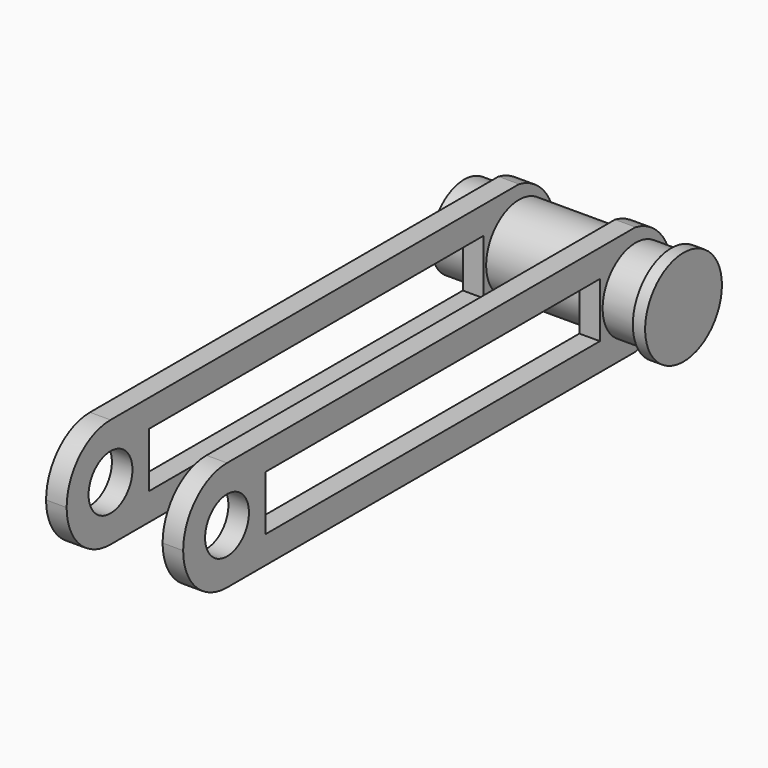
from build123d import *

# Parameters (mm, degrees)
F0_R          = 30
F1_DEPTH      = 160
F2_W          = 100
F2_H          = 80
F3_DEPTH      = 32.5
F3_DEPTH_BACK = 32.5
F4_W          = 15
F4_H          = 20
F5_DEPTH      = 380
F6_W          = 75
F6_H          = 80
F7_DEPTH      = 15
F8_W          = 75
F8_H          = 80
F9_DEPTH      = 15
F10_R         = 20
F11_DEPTH     = 135.001
F13_DEPTH     = 125.001
F14_W         = 70
F14_H         = 80
F15_DEPTH     = 65.001
F17_DEPTH     = 125.001
F18_R         = 30
F19_DEPTH     = 70
F20_R         = 35
F21_DEPTH     = 9


with BuildPart() as f1:
    # F0 (on Right) → F1 (new body)
    with BuildSketch(Plane.YZ):
        Circle(F0_R)
    extrude(amount=F1_DEPTH)

    # F2 (on Front) → F3 (join, two sides)
    with BuildSketch(Plane.XZ) as f3_sk:
        with Locations((75, 0)):
            Rectangle(F2_W, F2_H)
    extrude(amount=F3_DEPTH)
    extrude(f3_sk.sketch, amount=-F3_DEPTH_BACK)

    # F4 (on face) → F5 (join)
    with BuildSketch(Plane.XZ.offset(32.5)):
        with Locations((117.5, 30)):
            Rectangle(F4_W, F4_H)
        with Locations((117.5, -30)):
            Rectangle(F4_W, F4_H)
        with Locations((32.5, 30)):
            Rectangle(F4_W, F4_H)
        with Locations((32.5, -30)):
            Rectangle(F4_W, F4_H)
    extrude(amount=F5_DEPTH)

    # F6 (on face) → F7 (join)
    with BuildSketch(Plane.YZ.offset(125)):
        with Locations((-375, 0)):
            Rectangle(F6_W, F6_H)
    extrude(amount=-F7_DEPTH)

    # F8 (on face) → F9 (join)
    with BuildSketch(Plane(origin=(25, 0, 0), x_dir=(0, -1, 0), z_dir=(-1, 0, 0))):
        with Locations((375, 0)):
            Rectangle(F8_W, F8_H)
    extrude(amount=-F9_DEPTH)

    # F10 (on face) → F11 (cut, through all)
    with BuildSketch(Plane(origin=(25, 0, 0), x_dir=(0, -1, 0), z_dir=(-1, 0, 0))):
        with Locations((372.5, 0)):
            Circle(F10_R)
    extrude(amount=-F11_DEPTH, mode=Mode.SUBTRACT)

    # F12 (on face) → F13 (cut, through all)
    with BuildSketch(Plane.YZ.offset(125)):
        with BuildLine():
            ThreePointArc((-372.5, -40), (-400.7842712969, -28.2842711981), (-412.5, 1.397e-07))
            Line((-412.5, 1.397e-07), (-412.5, -40))
            Line((-412.5, -40), (-372.5, -40))
        make_face()
        with BuildLine():
            ThreePointArc((-412.5, 1.397e-07), (-400.7842711981, 28.2842712969), (-372.5, 40))
            Line((-372.5, 40), (-412.5, 40))
            Line((-412.5, 40), (-412.5, 1.397e-07))
        make_face()
    extrude(amount=-F13_DEPTH, mode=Mode.SUBTRACT)

    # F14 (on face) → F15 (cut, through all)
    with BuildSketch(Plane.XZ.offset(32.5)):
        with Locations((75, 0)):
            Rectangle(F14_W, F14_H)
    extrude(amount=-F15_DEPTH, mode=Mode.SUBTRACT)

    # F16 (on face) → F17 (cut, through all)
    with BuildSketch(Plane.YZ.offset(125)):
        with BuildLine():
            ThreePointArc((0, 40), (23.3508126253, 25.7694100117), (32.5, -3.825e-07))
            Line((32.5, -3.825e-07), (32.5, 40))
            Line((32.5, 40), (0, 40))
        make_face()
        with BuildLine():
            ThreePointArc((32.5, -3.825e-07), (23.3508123842, -25.7694103085), (0, -40))
            Line((0, -40), (32.5, -40))
            Line((32.5, -40), (32.5, -3.825e-07))
        make_face()
    extrude(amount=-F17_DEPTH, mode=Mode.SUBTRACT)

    # F18 (on face) → F19 (join)
    with BuildSketch(Plane(origin=(110, 0, 0), x_dir=(0, -1, 0), z_dir=(-1, 0, 0))):
        Circle(F18_R)
    extrude(amount=F19_DEPTH)

    # F20 (on face) → F21 (join)
    with BuildSketch(Plane.YZ.offset(160)):
        Circle(F20_R)
    extrude(amount=-F21_DEPTH)


solid = f1.part
